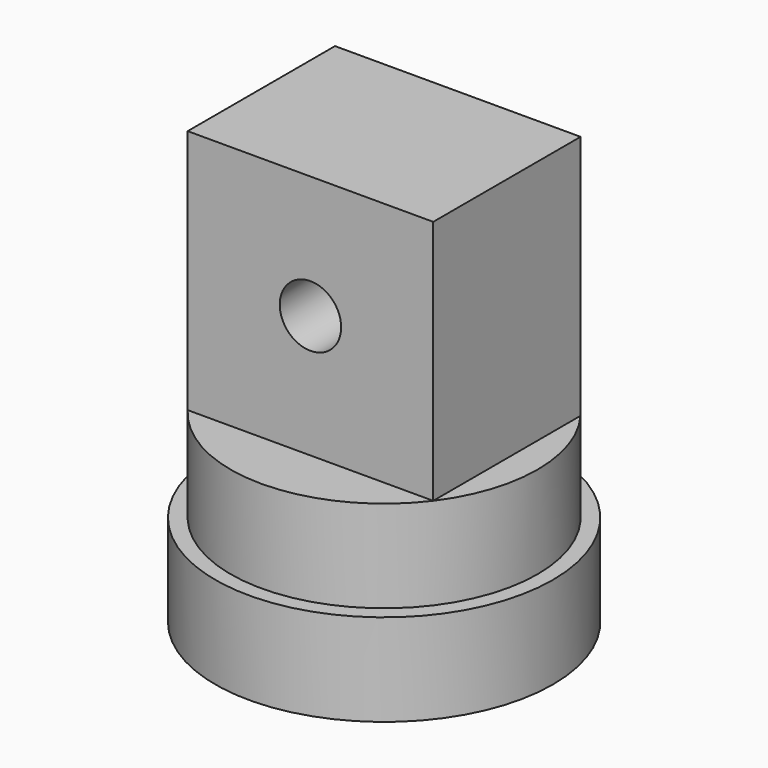
from build123d import *

# Parameters (mm, degrees)
F0_R     = 5.5
F0_R_2   = 1
F1_DEPTH = 3
F2_R     = 5
F2_R_2   = 1
F3_DEPTH = 3
F4_W     = 8
F4_H     = 6
F4_R     = 1
F5_DEPTH = 8
F6_R     = 1
F7_DEPTH = 25


with BuildPart() as f1:
    # F0 (on Top) → F1 (new body)
    with BuildSketch(Plane.XY):
        with Locations((-27.4031814188, 27.8583839536)):
            Circle(F0_R)
        with Locations((-27.4031814188, 27.8583839536)):
            Circle(F0_R_2, mode=Mode.SUBTRACT)
    extrude(amount=F1_DEPTH)

    # F2 (on face) → F3 (join)
    with BuildSketch(Plane.XY.offset(3)):
        with Locations((-27.4031814188, 27.8583839536)):
            Circle(F2_R)
        with Locations((-27.4031814188, 27.8583839536)):
            Circle(F2_R_2, mode=Mode.SUBTRACT)
    extrude(amount=F3_DEPTH)

    # F4 (on face) → F5 (join)
    with BuildSketch(Plane.XY.offset(6)):
        with Locations((-27.4031814188, 27.8583839536)):
            Rectangle(F4_W, F4_H)
        with Locations((-27.4031814188, 27.8583839536)):
            Circle(F4_R, mode=Mode.SUBTRACT)
        with Locations((-27.4031814188, 27.8583839536)):
            Circle(F4_R)
    extrude(amount=F5_DEPTH)

    # F6 (on face) → F7 (cut)
    with BuildSketch(Plane.XZ.offset(-24.8583839536)):
        with Locations((-27.4031814188, 10)):
            Circle(F6_R)
    extrude(amount=-F7_DEPTH, mode=Mode.SUBTRACT)


solid = f1.part
